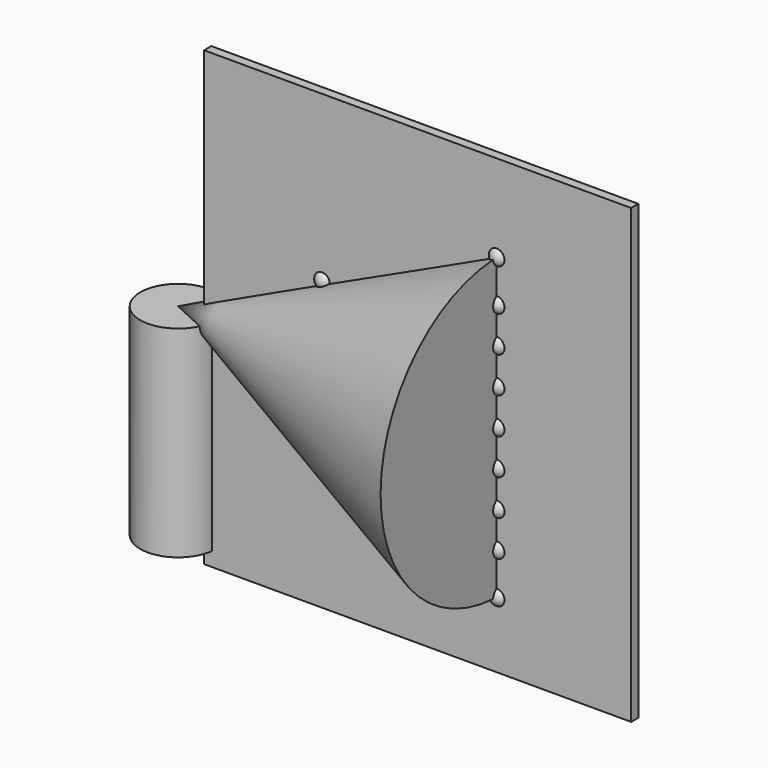
from build123d import *

# Parameters (mm, degrees)
F2_R          = 10.691611
F3_DEPTH      = 56.896
F4_W          = 120.61208
F4_H          = 127.777171
F5_DEPTH      = 1.27
F5_DEPTH_BACK = 1.27


with BuildPart() as f1:
    # F0 (on Top) → F1 (revolve)
    with BuildSketch(Plane.XY):
        Polygon((90.996444, 42.273942), (0, 0), (90.996444, 0), align=None)
    revolve(axis=Axis((45.498222, 0, 0), (-1, 0, 0)))


with BuildPart() as f3:
    # F2 (on Top) → F3 (new body)
    with BuildSketch(Plane.XY):
        Circle(F2_R)
    extrude(amount=-F3_DEPTH)


with BuildPart() as f5:
    # F4 (on Front) → F5 (new body, two sides)
    with BuildSketch(Plane.XZ) as f5_sk:
        with Locations((68.659606, 2.985449)):
            Rectangle(F4_W, F4_H)
    extrude(amount=F5_DEPTH)
    extrude(f5_sk.sketch, amount=-F5_DEPTH_BACK)


with BuildPart() as f7:
    # F6 (on face) → F7 (revolve)
    with BuildSketch(Plane.YZ.offset(90.996444)):
        with BuildLine():
            Line((0, 44.813942), (0, 39.733942))
            ThreePointArc((0, 39.733942), (2.54, 42.273942), (0, 44.813942))
        make_face()
        with BuildLine():
            Line((0, 33.02), (0, 27.94))
            ThreePointArc((0, 27.94), (2.54, 30.48), (0, 33.02))
        make_face()
        with BuildLine():
            Line((0, 22.86), (0, 17.78))
            ThreePointArc((0, 17.78), (2.54, 20.32), (0, 22.86))
        make_face()
        with BuildLine():
            Line((0, 12.7), (0, 7.62))
            ThreePointArc((0, 7.62), (2.54, 10.16), (0, 12.7))
        make_face()
        with BuildLine():
            Line((0, 2.54), (0, -2.54))
            ThreePointArc((0, -2.54), (2.54, 0), (0, 2.54))
        make_face()
        with BuildLine():
            ThreePointArc((0, -44.813942), (2.54, -42.273942), (0, -39.733942))
            Line((0, -39.733942), (0, -44.813942))
        make_face()
        with BuildLine():
            ThreePointArc((0, -33.02), (2.54, -30.48), (0, -27.94))
            Line((0, -27.94), (0, -33.02))
        make_face()
        with BuildLine():
            ThreePointArc((0, -22.86), (2.54, -20.32), (0, -17.78))
            Line((0, -17.78), (0, -22.86))
        make_face()
        with BuildLine():
            ThreePointArc((0, -12.7), (2.54, -10.16), (0, -7.62))
            Line((0, -7.62), (0, -12.7))
        make_face()
    revolve(axis=Axis((90.996444, 0, 41.003942), (0, 0, -1)))


with BuildPart() as f10:
    # F9 (on offset) → F10 (revolve)
    with BuildSketch(Plane.YZ.offset(41.656)):
        with BuildLine():
            Line((0, 22.86), (0, 17.78))
            ThreePointArc((0, 17.78), (2.54, 20.32), (0, 22.86))
        make_face()
        with BuildLine():
            Line((0, 12.7), (0, 7.62))
            ThreePointArc((0, 7.62), (2.54, 10.16), (0, 12.7))
        make_face()
        with BuildLine():
            Line((0, 2.54), (0, -2.54))
            ThreePointArc((0, -2.54), (2.54, 0), (0, 2.54))
        make_face()
        with BuildLine():
            Line((0, -7.62), (0, -12.7))
            ThreePointArc((0, -12.7), (2.54, -10.16), (0, -7.62))
        make_face()
        with BuildLine():
            Line((0, -17.78), (0, -22.86))
            ThreePointArc((0, -22.86), (2.54, -20.32), (0, -17.78))
        make_face()
    revolve(axis=Axis((41.656, 0, -10.16), (0, 0, -1)))


with BuildPart() as f13:
    # F12 (on offset) → F13 (revolve)
    with BuildSketch(Plane.YZ.offset(12.954)):
        with BuildLine():
            Line((0, 2.54), (0, -2.54))
            ThreePointArc((0, -2.54), (2.54, 0), (0, 2.54))
        make_face()
    revolve(axis=Axis((12.954, 0, 0), (0, 0, -1)))


solid = Compound([f1.part, f3.part, f5.part, f7.part, f10.part, f13.part])
